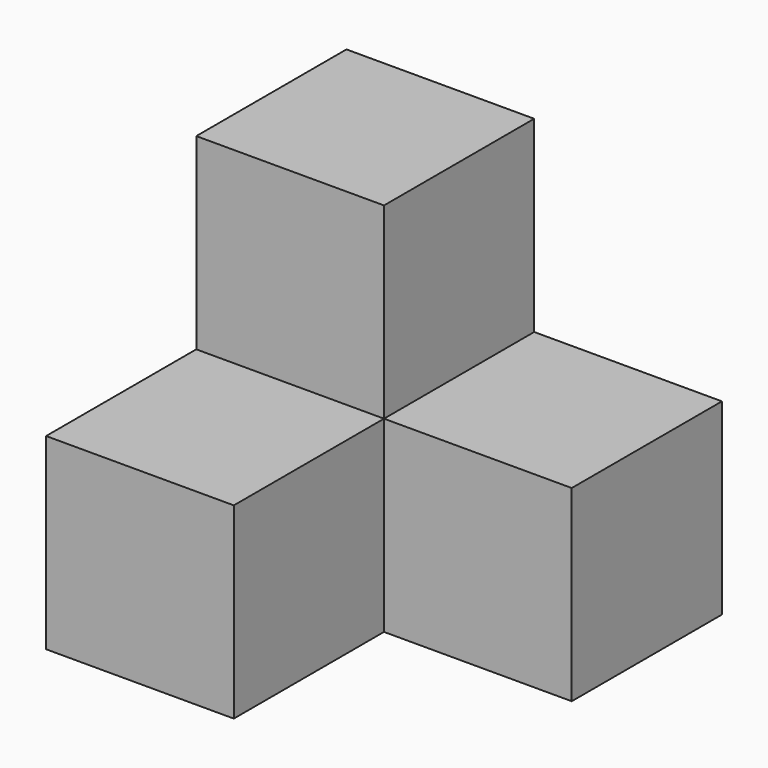
from build123d import *

# Parameters (mm, degrees)
F0_W     = 12.7
F0_H     = 12.7
F1_DEPTH = 12.7
F2_W     = 12.7
F2_H     = 12.7
F3_DEPTH = 12.7


with BuildPart() as f1:
    # F0 (on Top) → F1 (new body)
    with BuildSketch(Plane.XY):
        with Locations((6.35, -6.35)):
            Rectangle(F0_W, F0_H)
        with Locations((19.05, -6.35)):
            Rectangle(F0_W, F0_H)
        with Locations((6.35, -19.05)):
            Rectangle(F0_W, F0_H)
    extrude(amount=F1_DEPTH)

    # F2 (on face) → F3 (join)
    with BuildSketch(Plane.XY.offset(12.7)):
        with Locations((6.35, -6.35)):
            Rectangle(F2_W, F2_H)
    extrude(amount=F3_DEPTH)


solid = f1.part
